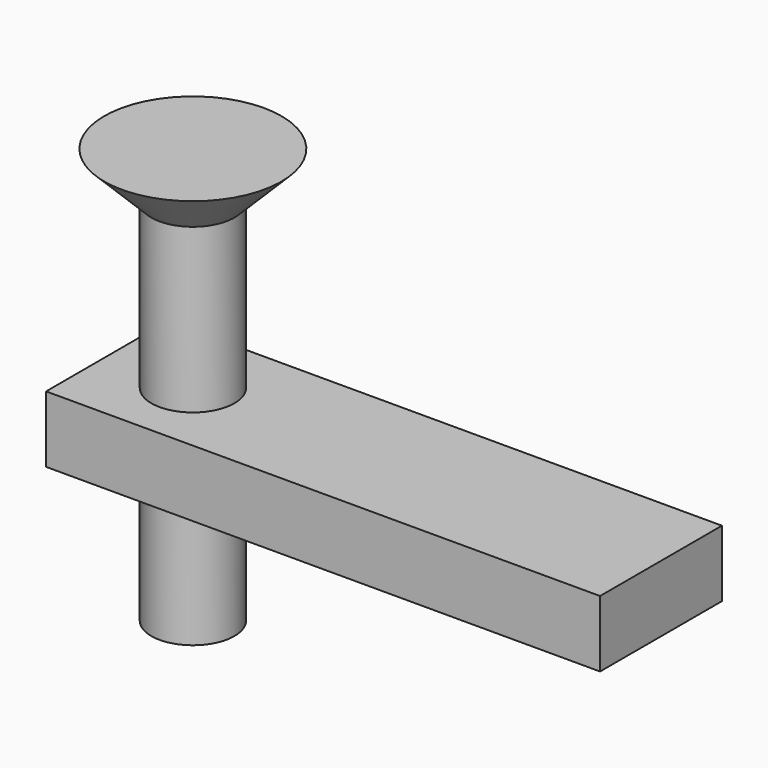
from build123d import *

# Parameters (mm, degrees)
BOX_W     = 20
BOX_H     = 5.5
BOX_DEPTH = 2.4


with BuildPart() as nutslot:
    # Box → Box (new body)
    with BuildSketch(Plane(origin=(-3.1, -2.75, -10), x_dir=(1, 0, 0), z_dir=(0, 0, 1))):
        with Locations((10, 2.75)):
            Rectangle(BOX_W, BOX_H)
    extrude(amount=BOX_DEPTH)


with BuildPart() as countersunkcut:
    # Sketch007 → Revolution001 (revolve)
    with BuildSketch(Plane.YZ):
        Polygon((3.2, 0), (1.5, -1.7), (1.5, -15), (0, -15), (0, 0), align=None)
    revolve(axis=Axis((0, 0, 0), (0, 0, 1)))

    # Fusion: union NutSlot
    add(nutslot.part)


solid = countersunkcut.part
